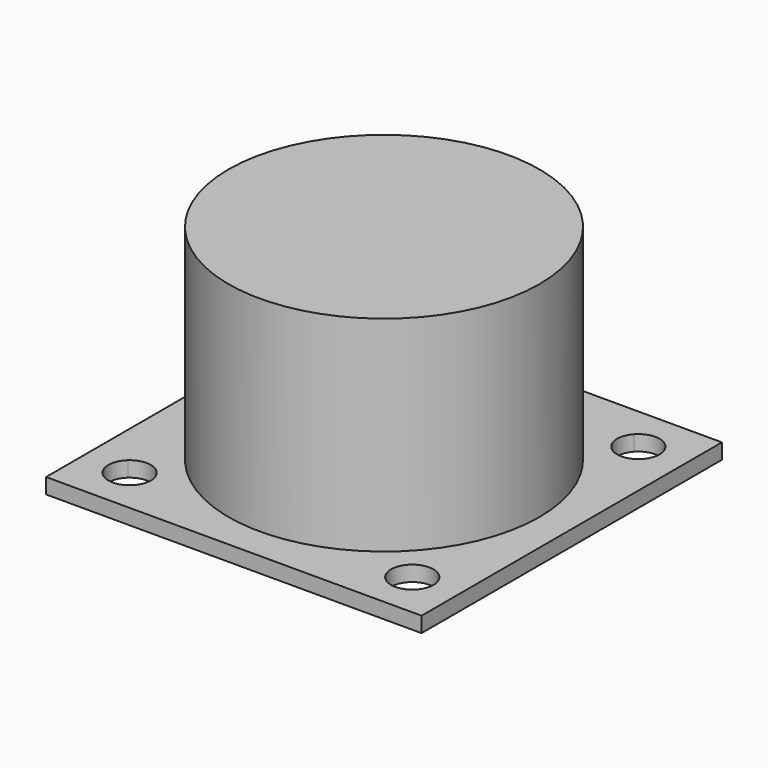
from build123d import *

# Parameters (mm, degrees)
F0_R     = 25.67
F1_DEPTH = 2.54
F2_DEPTH = 36.4


with BuildPart() as f1:
    # F0 (on Top) → F1 (new body)
    with BuildSketch(Plane.XY):
        with BuildLine():
            ThreePointArc((-20.731889127, 25.6746718231), (-16.242532495, 28.7259488642), (-11.313708499, 31))
            Line((-11.313708499, 31), (-31, 31))
            Line((-31, 31), (-31, 11.313708499))
            ThreePointArc((-31, 11.313708499), (-28.7259488642, 16.242532495), (-25.6746718231, 20.731889127))
            ThreePointArc((-25.6746718231, 20.731889127), (-25.8093975133, 25.8093975133), (-20.731889127, 25.6746718231))
        make_face()
        with BuildLine():
            Line((31, -11.313708499), (31, 11.313708499))
            ThreePointArc((31, 11.313708499), (28.7259488642, 16.242532495), (25.6746718231, 20.731889127))
            ThreePointArc((25.6746718231, 20.731889127), (20.859650045, 20.859650045), (20.731889127, 25.6746718231))
            ThreePointArc((20.731889127, 25.6746718231), (16.242532495, 28.7259488642), (11.313708499, 31))
            Line((11.313708499, 31), (-11.313708499, 31))
            ThreePointArc((-11.313708499, 31), (-16.242532495, 28.7259488642), (-20.731889127, 25.6746718231))
            ThreePointArc((-20.731889127, 25.6746718231), (-20.066556423, 24.5876755492), (-19.8345237792, 23.3345237792))
            ThreePointArc((-19.8345237792, 23.3345237792), (-21.9098340154, 20.1376097864), (-25.6746718231, 20.731889127))
            ThreePointArc((-25.6746718231, 20.731889127), (-28.7259488642, 16.242532495), (-31, 11.313708499))
            Line((-31, 11.313708499), (-31, -11.313708499))
            ThreePointArc((-31, -11.313708499), (-28.7259488642, -16.242532495), (-25.6746718231, -20.731889127))
            ThreePointArc((-25.6746718231, -20.731889127), (-21.9098340154, -20.1376097864), (-19.8345237792, -23.3345237792))
            ThreePointArc((-19.8345237792, -23.3345237792), (-20.066556423, -24.5876755492), (-20.731889127, -25.6746718231))
            ThreePointArc((-20.731889127, -25.6746718231), (-16.242532495, -28.7259488642), (-11.313708499, -31))
            Line((-11.313708499, -31), (11.313708499, -31))
            ThreePointArc((11.313708499, -31), (16.242532495, -28.7259488642), (20.731889127, -25.6746718231))
            ThreePointArc((20.731889127, -25.6746718231), (20.859650045, -20.859650045), (25.6746718231, -20.731889127))
            ThreePointArc((25.6746718231, -20.731889127), (28.7259488642, -16.242532495), (31, -11.313708499))
        make_face()
        Circle(F0_R, mode=Mode.SUBTRACT)
        with BuildLine():
            Line((-31, -31), (-11.313708499, -31))
            ThreePointArc((-11.313708499, -31), (-16.242532495, -28.7259488642), (-20.731889127, -25.6746718231))
            ThreePointArc((-20.731889127, -25.6746718231), (-25.8093975133, -25.8093975133), (-25.6746718231, -20.731889127))
            ThreePointArc((-25.6746718231, -20.731889127), (-28.7259488642, -16.242532495), (-31, -11.313708499))
            Line((-31, -11.313708499), (-31, -31))
        make_face()
        with BuildLine():
            Line((31, -31), (31, -11.313708499))
            ThreePointArc((31, -11.313708499), (28.7259488642, -16.242532495), (25.6746718231, -20.731889127))
            ThreePointArc((25.6746718231, -20.731889127), (26.5314377719, -21.9098340154), (26.8345237792, -23.3345237792))
            ThreePointArc((26.8345237792, -23.3345237792), (24.5876755492, -26.6024911354), (20.731889127, -25.6746718231))
            ThreePointArc((20.731889127, -25.6746718231), (16.242532495, -28.7259488642), (11.313708499, -31))
            Line((11.313708499, -31), (31, -31))
        make_face()
        with BuildLine():
            ThreePointArc((25.6746718231, 20.731889127), (28.7259488642, 16.242532495), (31, 11.313708499))
            Line((31, 11.313708499), (31, 31))
            Line((31, 31), (11.313708499, 31))
            ThreePointArc((11.313708499, 31), (16.242532495, 28.7259488642), (20.731889127, 25.6746718231))
            ThreePointArc((20.731889127, 25.6746718231), (24.5876755492, 26.6024911354), (26.8345237792, 23.3345237792))
            ThreePointArc((26.8345237792, 23.3345237792), (26.5314377719, 21.9098340154), (25.6746718231, 20.731889127))
        make_face()
    extrude(amount=F1_DEPTH)

    # F0 (on Top) → F2 (join)
    with BuildSketch(Plane.XY):
        Circle(F0_R)
    extrude(amount=F2_DEPTH)


solid = f1.part
